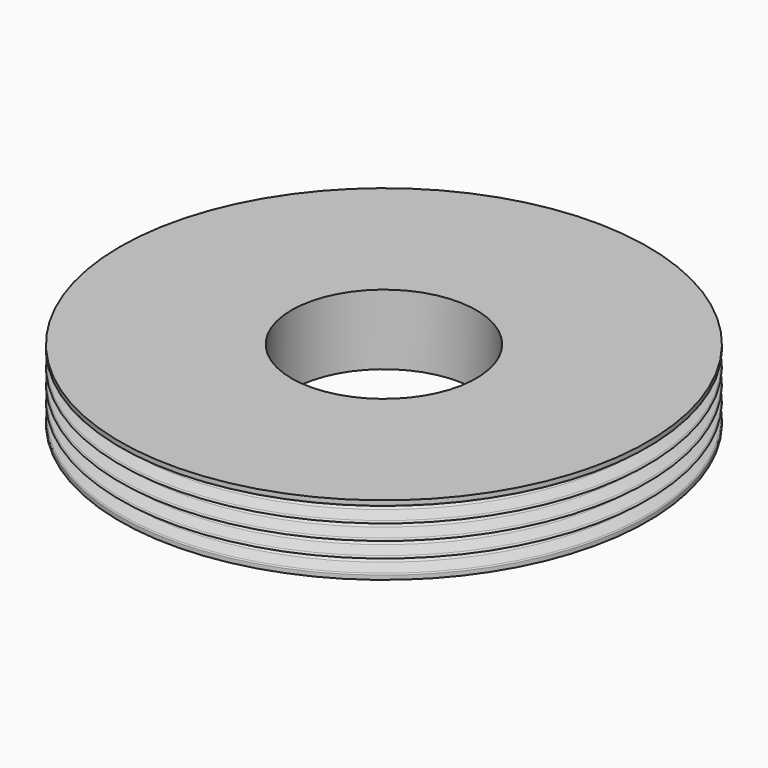
from build123d import *


with BuildPart() as f1:
    # F0 (on Front) → F1 (revolve)
    with BuildSketch(Plane.XZ):
        with BuildLine():
            ThreePointArc((0.136808, 0.375877), (0.4, 0), (0.136808, -0.375877))
            Line((0.136808, -0.375877), (-1.52867, -0.982061))
            ThreePointArc((-1.52867, -0.982061), (-1.660266, -1.17), (-1.52867, -1.357939))
            Line((-1.52867, -1.357939), (0.136808, -1.964123))
            ThreePointArc((0.136808, -1.964123), (0.4, -2.34), (0.136808, -2.715877))
            Line((0.136808, -2.715877), (-1.52867, -3.322061))
            ThreePointArc((-1.52867, -3.322061), (-1.624096, -3.395285), (-1.660266, -3.51))
            Line((-1.660266, -3.51), (-1.660266, -4.14))
            Line((-1.660266, -4.14), (24.339734, -4.14))
            Line((24.339734, -4.14), (24.339734, 6.48))
            Line((24.339734, 6.48), (-1.660266, 6.48))
            Line((-1.660266, 6.48), (-1.660266, 5.85))
            ThreePointArc((-1.660266, 5.85), (-1.624096, 5.735285), (-1.52867, 5.662061))
            Line((-1.52867, 5.662061), (0.136808, 5.055877))
            ThreePointArc((0.136808, 5.055877), (0.4, 4.68), (0.136808, 4.304123))
            Line((0.136808, 4.304123), (-1.52867, 3.697939))
            ThreePointArc((-1.52867, 3.697939), (-1.660266, 3.51), (-1.52867, 3.322061))
            Line((-1.52867, 3.322061), (0.136808, 2.715877))
            ThreePointArc((0.136808, 2.715877), (0.4, 2.34), (0.136808, 1.964123))
            Line((0.136808, 1.964123), (-1.52867, 1.357939))
            ThreePointArc((-1.52867, 1.357939), (-1.660266, 1.17), (-1.52867, 0.982061))
            Line((-1.52867, 0.982061), (0.136808, 0.375877))
        make_face()
    revolve(axis=Axis((38.339734, 0, 1.17), (0, 0, -1)))


solid = f1.part
